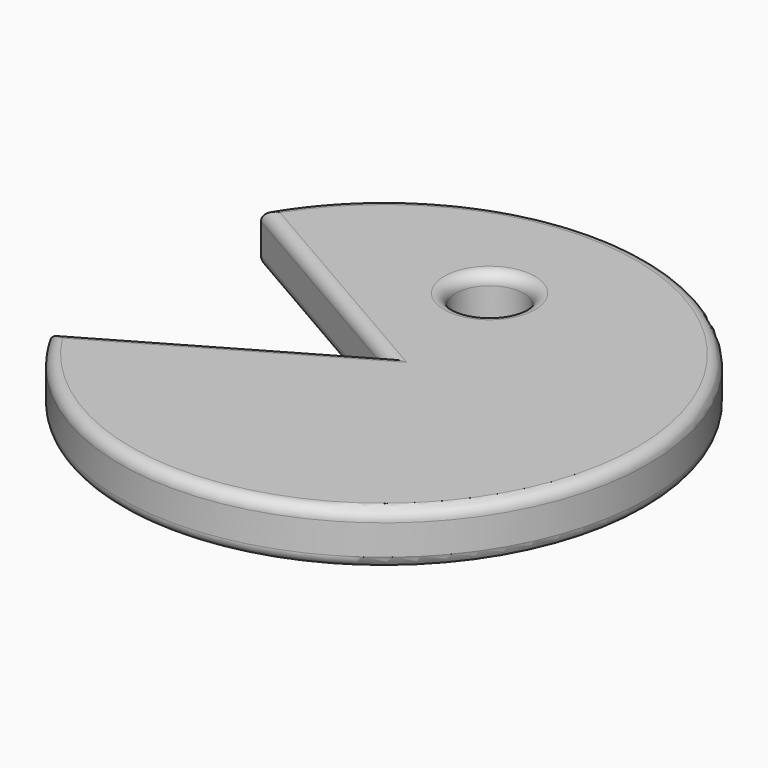
from build123d import *

# Parameters (mm, degrees)
F0_R     = 11.625
F1_DEPTH = 2.33
F3_DEPTH = 2.331
F4_R     = 1.5
F5_DEPTH = 2.331
F6_R     = 0.5


with BuildPart() as f1:
    # F0 (on Top) → F1 (new body)
    with BuildSketch(Plane.XY):
        Circle(F0_R)
    extrude(amount=F1_DEPTH)

    # F2 (on face) → F3 (cut, through all)
    with BuildSketch(Plane.XY.offset(2.33)):
        with BuildLine():
            Line((-10.067545, -5.8125), (0, 0))
            Line((0, 0), (-10.067545, 5.8125))
            ThreePointArc((-10.067545, 5.8125), (-11.625, 0), (-10.067545, -5.8125))
        make_face()
    extrude(amount=-F3_DEPTH, mode=Mode.SUBTRACT)

    # F4 (on face) → F5 (cut, through all)
    with BuildSketch(Plane.XY.offset(2.33)):
        with Locations((0, 5.8125)):
            Circle(F4_R)
    extrude(amount=-F5_DEPTH, mode=Mode.SUBTRACT)

    # F6
    f6_edges = [f1.edges().sort_by_distance(p)[0] for p in [
        (11.625, 0, 2.33),
        (11.625, 0, 0),
        (-5.033773, -2.90625, 2.33),
        (-5.033773, 2.90625, 2.33),
        (-5.033773, -2.90625, 0),
        (-5.033773, 2.90625, 0),
        (-1.5, 5.8125, 0),
        (-1.5, 5.8125, 2.33),
    ]]
    fillet(f6_edges, radius=F6_R)


solid = f1.part
